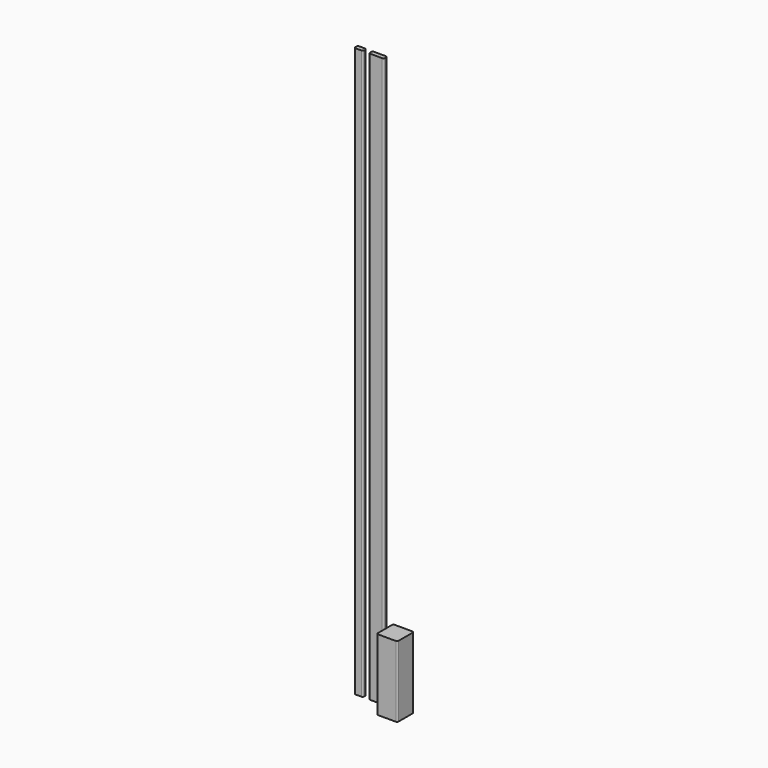
from build123d import *

# Parameters (mm, degrees)
F1_DEPTH = 2438.4
F2_DEPTH = 2438.4
F3_DEPTH = 304.8


with BuildPart() as f1:
    # F0 (on Top) → F1 (new body)
    with BuildSketch(Plane.XY):
        with BuildLine():
            Line((31.75, 0), (6.35, 0))
            ThreePointArc((6.35, 0), (1.859872, -1.859872), (0, -6.35))
            Line((0, -6.35), (0, -12.7))
            ThreePointArc((0, -12.7), (1.859872, -17.190128), (6.35, -19.05))
            Line((6.35, -19.05), (31.75, -19.05))
            ThreePointArc((31.75, -19.05), (36.240128, -17.190128), (38.1, -12.7))
            Line((38.1, -12.7), (38.1, -6.35))
            ThreePointArc((38.1, -6.35), (36.240128, -1.859872), (31.75, 0))
        make_face()
    extrude(amount=F1_DEPTH)


with BuildPart() as f2:
    # F0 (on Top) → F2 (new body)
    with BuildSketch(Plane.XY):
        with BuildLine():
            Line((120.65, 0), (69.85, 0))
            ThreePointArc((69.85, 0), (65.359872, -1.859872), (63.5, -6.35))
            Line((63.5, -6.35), (63.5, -12.7))
            ThreePointArc((63.5, -12.7), (65.359872, -17.190128), (69.85, -19.05))
            Line((69.85, -19.05), (120.65, -19.05))
            ThreePointArc((120.65, -19.05), (125.140128, -17.190128), (127, -12.7))
            Line((127, -12.7), (127, -6.35))
            ThreePointArc((127, -6.35), (125.140128, -1.859872), (120.65, 0))
        make_face()
    extrude(amount=F2_DEPTH)


with BuildPart() as f3:
    # F0 (on Top) → F3 (new body)
    with BuildSketch(Plane.XY):
        with BuildLine():
            Line((234.95, 0), (158.75, 0))
            ThreePointArc((158.75, 0), (154.259872, -1.859872), (152.4, -6.35))
            Line((152.4, -6.35), (152.4, -82.55))
            ThreePointArc((152.4, -82.55), (154.259872, -87.040128), (158.75, -88.9))
            Line((158.75, -88.9), (234.95, -88.9))
            ThreePointArc((234.95, -88.9), (239.440128, -87.040128), (241.3, -82.55))
            Line((241.3, -82.55), (241.3, -6.35))
            ThreePointArc((241.3, -6.35), (239.440128, -1.859872), (234.95, 0))
        make_face()
    extrude(amount=F3_DEPTH)


solid = Compound([f1.part, f2.part, f3.part])
